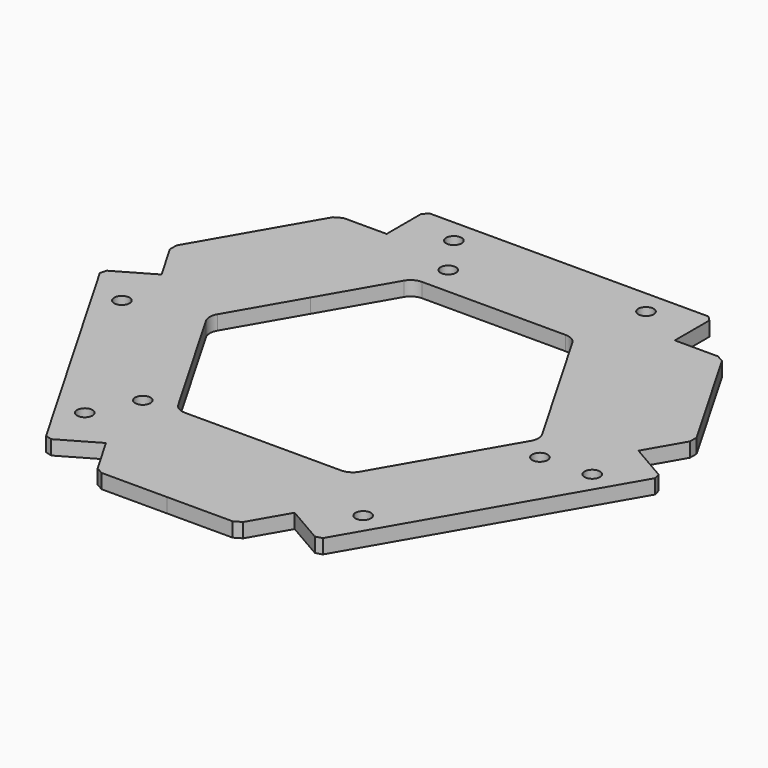
from build123d import *

# Parameters (mm, degrees)
SKETCH_R              = 1.6
PAD_DEPTH             = 3
POLARPATTERN_COUNT    = 3
POCKET_DEPTH          = 316.40103
POLARPATTERN001_COUNT = 3
CHAMFER_SIZE          = 1
FILLET_R              = 3
SKETCH066_R           = 1.6
POCKET032_DEPTH       = 3.001


with BuildPart() as part:
    # Sketch → Pad (new body)
    with BuildSketch(Plane.XY):
        Polygon((0, 0), (-47.320508, 27.320508), (-54.641016, 14.641016), (-49.641016, 5.980762), (-58.30127, 0.980762), (-28.30127, -50.980762), (-19.641016, -45.980762), (-14.641016, -54.641016), (0, -54.641016), align=None)
        with Locations((-48.971143, -5.179492)):
            Circle(SKETCH_R, mode=Mode.SUBTRACT)
        with Locations((-28.971143, -39.820508)):
            Circle(SKETCH_R, mode=Mode.SUBTRACT)
    pad = extrude(amount=PAD_DEPTH)

    # PolarPattern: Pad ×3 about axis
    polarpattern_axis = Axis((0, 0, 0), (0, 0, 1))
    for i in range(1, POLARPATTERN_COUNT):
        add(pad.rotate(polarpattern_axis, i * 360 / POLARPATTERN_COUNT))

    # Sketch001 → Pocket (cut, through all)
    with BuildSketch(Plane.XY):
        Polygon((-25.669873, 14.820508), (-34.669873, -0.767949), (-18, -29.641016), (0, -29.641016), (0, 0), align=None)
    pocket = extrude(amount=POCKET_DEPTH, mode=Mode.SUBTRACT)

    # PolarPattern001: Pocket ×3 about axis
    polarpattern001_axis = Axis((0, 0, 0), (0, 0, 1))
    for i in range(1, POLARPATTERN001_COUNT):
        add(pocket.rotate(polarpattern001_axis, i * 360 / POLARPATTERN001_COUNT), mode=Mode.SUBTRACT)

    # Chamfer
    chamfer_edges = [part.edges().sort_by_distance(p)[0] for p in [
        (-54.641016, 14.641016, 1.5),
        (-40, 40, 1.5),
        (-30, 50, 1.5),
        (30, 50, 1.5),
        (40, 40, 1.5),
        (54.641016, 14.641016, 1.5),
        (58.30127, 0.980762, 1.5),
        (28.30127, -50.980762, 1.5),
        (14.641016, -54.641016, 1.5),
        (-14.641016, -54.641016, 1.5),
        (-28.30127, -50.980762, 1.5),
        (-58.30127, 0.980762, 1.5),
    ]]
    chamfer(chamfer_edges, length=CHAMFER_SIZE)

    # Fillet
    fillet_edges = [part.edges().sort_by_distance(p)[0] for p in [
        (-16.669873, 30.408965, 1.5),
        (18, -29.641016, 1.5),
        (-18, -29.641016, 1.5),
        (34.669873, -0.767949, 1.5),
        (16.669873, 30.408965, 1.5),
        (-34.669873, -0.767949, 1.5),
    ]]
    fillet(fillet_edges, radius=FILLET_R)

    # Sketch066 (on Binder) → Pocket032 (cut, through all)
    with BuildSketch(Plane(origin=(0, 0, 3), x_dir=(1, 0, 0), z_dir=(0, 0, -1))):
        with Locations((-24.348373, 30.5)):
            Circle(SKETCH066_R)
        with Locations((38.587961, 5.836309)):
            Circle(SKETCH066_R)
        with Locations((-14.239588, -36.336309)):
            Circle(SKETCH066_R)
    extrude(amount=POCKET032_DEPTH, mode=Mode.SUBTRACT)


solid = part.part
